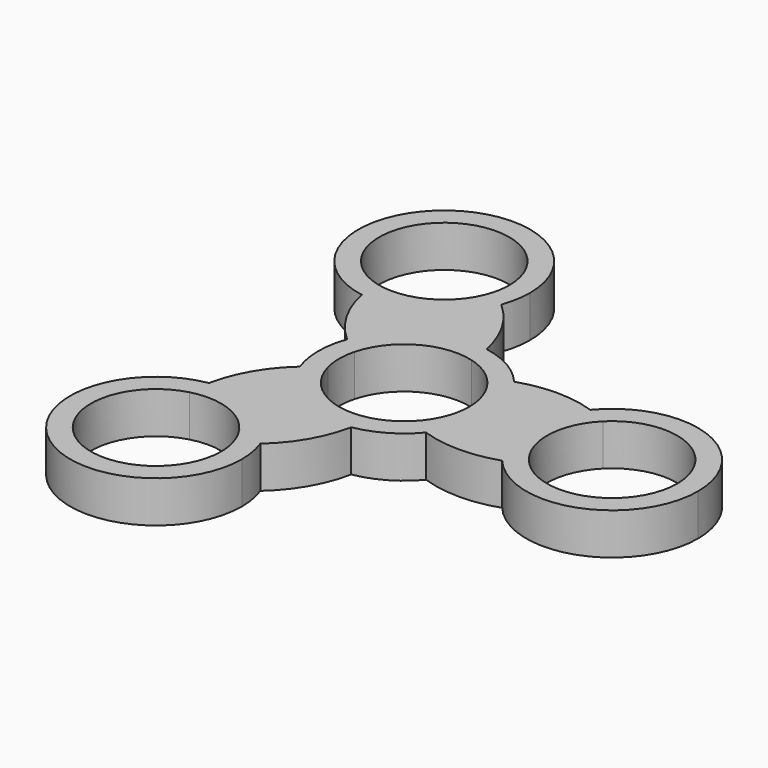
from build123d import *

# Parameters (mm, degrees)
F1_DEPTH = 7


with BuildPart() as f1:
    # F0 (on Top) → F1 (new body)
    with BuildSketch(Plane.XY):
        with BuildLine():
            ThreePointArc((7.7215140452, 7.7640659999), (10.1107140894, 4.2042788445), (10.95, 0))
            ThreePointArc((10.95, 0), (10.1107140894, -4.2042788445), (7.7215140452, -7.7640659999))
            ThreePointArc((7.7215140452, -7.7640659999), (9.3714996961, -8.5912244272), (11.0907126081, -9.2627530381))
            ThreePointArc((11.0907126081, -9.2627530381), (13.5842426581, -4.9265455856), (14.45, 0))
            ThreePointArc((14.45, 0), (13.5842426581, 4.9265455856), (11.0907126081, 9.2627530381))
            ThreePointArc((11.0907126081, 9.2627530381), (9.3714996961, 8.5912244272), (7.7215140452, 7.7640659999))
        make_face()
        with BuildLine():
            ThreePointArc((2.8631213699, 10.5690603187), (5.475, 9.4829781714), (7.7215140452, 7.7640659999))
            ThreePointArc((7.7215140452, 7.7640659999), (9.3714996961, 8.5912244272), (11.0907126081, 9.2627530381))
            ThreePointArc((11.0907126081, 9.2627530381), (7.225, 12.5140670847), (2.4764231359, 14.2362153837))
            ThreePointArc((2.4764231359, 14.2362153837), (2.7544687555, 12.411569022), (2.8631213699, 10.5690603187))
        make_face()
        with BuildLine():
            ThreePointArc((11.0907126081, -9.2627530381), (9.3714996961, -8.5912244272), (7.7215140452, -7.7640659999))
            ThreePointArc((7.7215140452, -7.7640659999), (5.475, -9.4829781714), (2.8631213699, -10.5690603187))
            ThreePointArc((2.8631213699, -10.5690603187), (2.7544687555, -12.411569022), (2.4764231359, -14.2362153837))
            ThreePointArc((2.4764231359, -14.2362153837), (7.225, -12.5140670847), (11.0907126081, -9.2627530381))
        make_face()
        with BuildLine():
            ThreePointArc((-10.5846354151, 2.8049943189), (-5.475, 9.4829781714), (2.8631213699, 10.5690603187))
            ThreePointArc((2.8631213699, 10.5690603187), (2.7544687555, 12.411569022), (2.4764231359, 14.2362153837))
            ThreePointArc((2.4764231359, 14.2362153837), (-7.225, 12.5140670847), (-13.567135744, 4.9734623456))
            ThreePointArc((-13.567135744, 4.9734623456), (-12.1259684516, 3.8203445948), (-10.5846354151, 2.8049943189))
        make_face()
        with BuildLine():
            ThreePointArc((23.9092873919, 9.2627530381), (17.5, 10.3175416345), (11.0907126081, 9.2627530381))
            ThreePointArc((11.0907126081, 9.2627530381), (13.5842426581, 4.9265455856), (14.45, 0))
            ThreePointArc((14.45, 0), (13.5842426581, -4.9265455856), (11.0907126081, -9.2627530381))
            ThreePointArc((11.0907126081, -9.2627530381), (17.5, -10.3175416345), (23.9092873919, -9.2627530381))
            ThreePointArc((23.9092873919, -9.2627530381), (20.55, 0), (23.9092873919, 9.2627530381))
        make_face()
        with BuildLine():
            ThreePointArc((2.4764231359, -14.2362153837), (2.7544687555, -12.411569022), (2.8631213699, -10.5690603187))
            ThreePointArc((2.8631213699, -10.5690603187), (-5.475, -9.4829781714), (-10.5846354151, -2.8049943189))
            ThreePointArc((-10.5846354151, -2.8049943189), (-12.1259684516, -3.8203445948), (-13.567135744, -4.9734623456))
            ThreePointArc((-13.567135744, -4.9734623456), (-7.225, -12.5140670847), (2.4764231359, -14.2362153837))
        make_face()
        with BuildLine():
            ThreePointArc((-10.5846354151, -2.8049943189), (-10.95, 0), (-10.5846354151, 2.8049943189))
            ThreePointArc((-10.5846354151, 2.8049943189), (-12.1259684516, 3.8203445948), (-13.567135744, 4.9734623456))
            ThreePointArc((-13.567135744, 4.9734623456), (-14.45, 0), (-13.567135744, -4.9734623456))
            ThreePointArc((-13.567135744, -4.9734623456), (-12.1259684516, -3.8203445948), (-10.5846354151, -2.8049943189))
        make_face()
        with BuildLine():
            ThreePointArc((-13.567135744, 4.9734623456), (-7.225, 12.5140670847), (2.4764231359, 14.2362153837))
            ThreePointArc((2.4764231359, 14.2362153837), (0.1852531601, 20.3142153835), (-3.932864256, 25.3374267868))
            ThreePointArc((-3.932864256, 25.3374267868), (-10.275, 17.7968220478), (-19.9764231359, 16.0746737487))
            ThreePointArc((-19.9764231359, 16.0746737487), (-17.6852531601, 9.996673749), (-13.567135744, 4.9734623456))
        make_face()
        with BuildLine():
            ThreePointArc((27.2784859548, 7.7640659999), (25.6285003039, 8.5912244272), (23.9092873919, 9.2627530381))
            ThreePointArc((23.9092873919, 9.2627530381), (20.55, 0), (23.9092873919, -9.2627530381))
            ThreePointArc((23.9092873919, -9.2627530381), (25.6285003039, -8.5912244272), (27.2784859548, -7.7640659999))
            ThreePointArc((27.2784859548, -7.7640659999), (24.05, 0), (27.2784859548, 7.7640659999))
        make_face()
        with BuildLine():
            ThreePointArc((49.45, 0), (39.9265455856, 13.5842426581), (23.9092873919, 9.2627530381))
            ThreePointArc((23.9092873919, 9.2627530381), (25.6285003039, 8.5912244272), (27.2784859548, 7.7640659999))
            ThreePointArc((27.2784859548, 7.7640659999), (39.2042788445, 10.1107140894), (45.95, 0))
            ThreePointArc((45.95, 0), (39.2042788445, -10.1107140894), (27.2784859548, -7.7640659999))
            ThreePointArc((27.2784859548, -7.7640659999), (25.6285003039, -8.5912244272), (23.9092873919, -9.2627530381))
            ThreePointArc((23.9092873919, -9.2627530381), (39.9265455856, -13.5842426581), (49.45, 0))
        make_face()
        with BuildLine():
            ThreePointArc((-3.932864256, -25.3374267868), (0.1852531601, -20.3142153835), (2.4764231359, -14.2362153837))
            ThreePointArc((2.4764231359, -14.2362153837), (-7.225, -12.5140670847), (-13.567135744, -4.9734623456))
            ThreePointArc((-13.567135744, -4.9734623456), (-17.6852531601, -9.996673749), (-19.9764231359, -16.0746737487))
            ThreePointArc((-19.9764231359, -16.0746737487), (-10.275, -17.7968220478), (-3.932864256, -25.3374267868))
        make_face()
        with BuildLine():
            ThreePointArc((-6.9153645849, 27.5058948136), (-5.3740315484, 26.4905445377), (-3.932864256, 25.3374267868))
            ThreePointArc((-3.932864256, 25.3374267868), (-3.2724279742, 27.7852814334), (-3.05, 30.3108891325))
            ThreePointArc((-3.05, 30.3108891325), (-26.8010264403, 41.3695240915), (-19.9764231359, 16.0746737487))
            ThreePointArc((-19.9764231359, 16.0746737487), (-20.2544687555, 17.8993201105), (-20.3631213699, 19.7418288137))
            ThreePointArc((-20.3631213699, 19.7418288137), (-24.1539958295, 39.0072584611), (-6.55, 30.3108891325))
            ThreePointArc((-6.55, 30.3108891325), (-6.6417253259, 28.8965443717), (-6.9153645849, 27.5058948136))
        make_face()
        with BuildLine():
            ThreePointArc((-19.9764231359, 16.0746737487), (-10.275, 17.7968220478), (-3.932864256, 25.3374267868))
            ThreePointArc((-3.932864256, 25.3374267868), (-5.3740315484, 26.4905445377), (-6.9153645849, 27.5058948136))
            ThreePointArc((-6.9153645849, 27.5058948136), (-12.025, 20.827910961), (-20.3631213699, 19.7418288137))
            ThreePointArc((-20.3631213699, 19.7418288137), (-20.2544687555, 17.8993201105), (-19.9764231359, 16.0746737487))
        make_face()
        with BuildLine():
            ThreePointArc((-6.9153645849, -27.5058948136), (-5.3740315484, -26.4905445377), (-3.932864256, -25.3374267868))
            ThreePointArc((-3.932864256, -25.3374267868), (-10.275, -17.7968220478), (-19.9764231359, -16.0746737487))
            ThreePointArc((-19.9764231359, -16.0746737487), (-20.2544687555, -17.8993201105), (-20.3631213699, -19.7418288137))
            ThreePointArc((-20.3631213699, -19.7418288137), (-12.025, -20.827910961), (-6.9153645849, -27.5058948136))
        make_face()
        with BuildLine():
            ThreePointArc((-3.05, -30.3108891325), (-3.2724279742, -27.7852814334), (-3.932864256, -25.3374267868))
            ThreePointArc((-3.932864256, -25.3374267868), (-5.3740315484, -26.4905445377), (-6.9153645849, -27.5058948136))
            ThreePointArc((-6.9153645849, -27.5058948136), (-6.6417253259, -28.8965443717), (-6.55, -30.3108891325))
            ThreePointArc((-6.55, -30.3108891325), (-24.1539958295, -39.0072584611), (-20.3631213699, -19.7418288137))
            ThreePointArc((-20.3631213699, -19.7418288137), (-20.2544687555, -17.8993201105), (-19.9764231359, -16.0746737487))
            ThreePointArc((-19.9764231359, -16.0746737487), (-26.8010264403, -41.3695240915), (-3.05, -30.3108891325))
        make_face()
    extrude(amount=F1_DEPTH)


solid = f1.part
